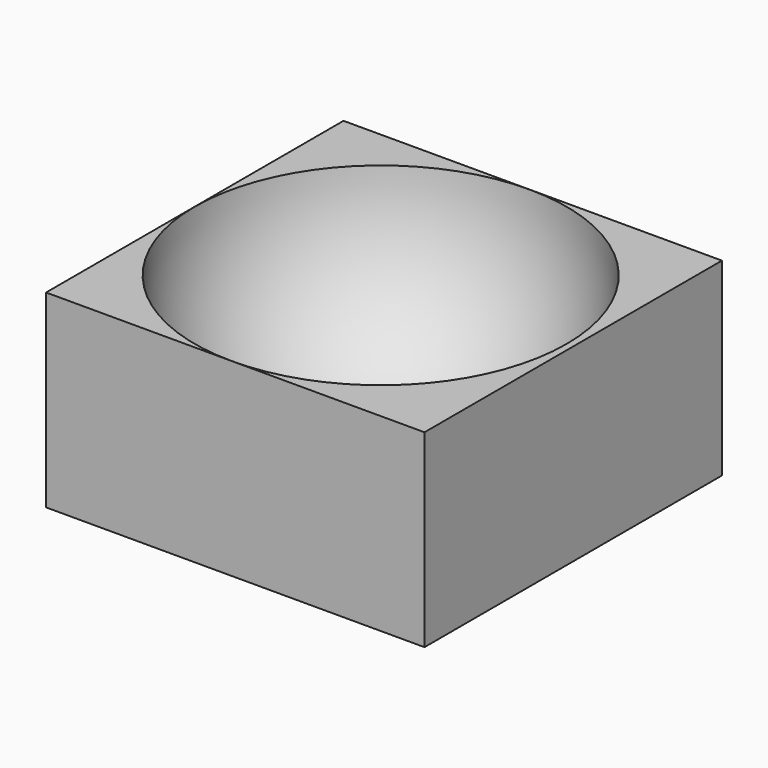
from build123d import *

# Parameters (mm, degrees)
F0_W     = 11.4
F0_H     = 5.7
F1_DEPTH = 5.6


with BuildPart() as f1:
    # F0 (on Front) → F1 (new body, symmetric)
    with BuildSketch(Plane.XZ):
        with Locations((0.1, -2.85)):
            Rectangle(F0_W, F0_H)
    extrude(amount=F1_DEPTH, both=True)

    # F2 (on Front) → F3 (revolve, cut)
    with BuildSketch(Plane.XZ):
        with BuildLine():
            ThreePointArc((0, -5.6), (5.6, 0), (0, 5.6))
            Line((0, 5.6), (0, -5.6))
        make_face()
    revolve(axis=Axis((0, 0, 0), (0, 0, -1)), mode=Mode.SUBTRACT)


solid = f1.part
